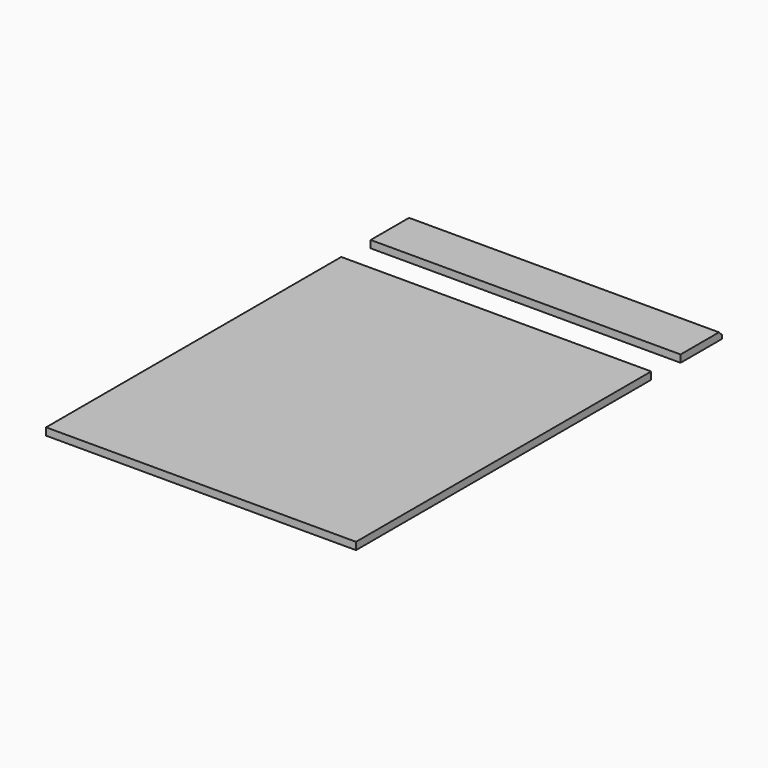
from build123d import *

# Parameters (mm, degrees)
F0_W     = 533.4
F0_H     = 88.9
F0_H_2   = 635
F1_DEPTH = 12.7
F2_SIZE  = 6.35


with BuildPart() as f1:
    # F0 (on Top) → F1 (new body)
    with BuildSketch(Plane.XY):
        with Locations((266.7, 742.751017)):
            Rectangle(F0_W, F0_H)
        with Locations((266.7, 317.5)):
            Rectangle(F0_W, F0_H_2)
    extrude(amount=F1_DEPTH)

    # F2
    f2_edges = [f1.edges().sort_by_distance(p)[0] for p in [
        (266.7, 787.201017, 12.7),
    ]]
    chamfer(f2_edges, length=F2_SIZE)


with BuildPart() as f1_1:
    # F3: moved
    add(f1.part.moved(Location((-1016, 0, 0))))


solid = f1_1.part
